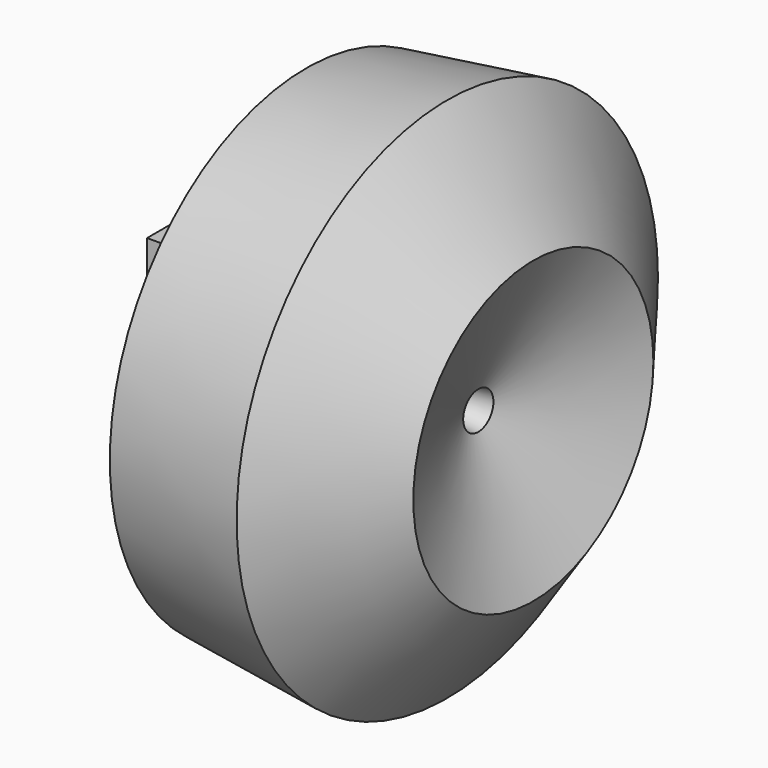
from build123d import *

# Parameters (mm, degrees)
F0_R     = 3.1013234417
F0_R_2   = 2.9804457563
F0_R_3   = 8.8787695935
F0_R_4   = 6.6755002606
F0_W     = 13.5676767677
F0_H     = 10.6998383999
F1_DEPTH = 18.542
F2_R     = 14.1107423838
F3_DEPTH = 25.4


with BuildPart() as f1:
    # F0 (on Top) → F1 (new body)
    with BuildSketch(Plane.XY):
        Polygon((36.2601056695, 15.412141569), (-38.8753563166, 15.412141569), (-38.8753563166, -13.3732762188), (-25.3076795489, -13.3732762188), (-25.3076795489, -24.0731146187), (36.2601056695, -24.0731146187), align=None)
        with Locations((-17.7570972592, -14.4744245335)):
            Circle(F0_R, mode=Mode.SUBTRACT)
        with Locations((25.30169487, -15.913406387)):
            Circle(F0_R_2, mode=Mode.SUBTRACT)
        with Locations((-27.0551405847, 2.0185327157)):
            Circle(F0_R_3, mode=Mode.SUBTRACT)
        with Locations((9.583575651, -0.8594332612)):
            Circle(F0_R_4, mode=Mode.SUBTRACT)
        Polygon((-38.8753563166, -24.0731146187), (-38.8753563166, -13.3732762188), (-44.2731007934, -13.3732762188), (-44.2731007934, -32.0454165339), (-25.3076795489, -32.0454165339), (-25.3076795489, -24.0731146187), align=None)
        with Locations((-32.0915179327, -18.7231954187)):
            Rectangle(F0_W, F0_H)
    extrude(amount=F1_DEPTH)

    # F2 (on face) → F3 (join)
    with BuildSketch(Plane(origin=(0, 0, 0), x_dir=(1, 0, 0), z_dir=(0, 0, -1))):
        with Locations((27.0440354943, -18.5568481684)):
            Circle(F2_R)
    extrude(amount=F3_DEPTH)


with BuildPart() as f6:
    # F5 (on face) → F6 (revolve)
    with BuildSketch(Plane(origin=(0, 0, 0), x_dir=(1, 0, 0), z_dir=(0, 0, -1))):
        with BuildLine():
            Line((65.124420279, -20.8997673818), (48.6210381451, 18.414020864))
            Line((48.6210381451, 18.414020864), (36.2601056695, 19.9817100092))
            Line((36.2601056695, 19.9817100092), (36.2601056695, -7.8714796137))
            ThreePointArc((36.2601056695, -7.8714796137), (22.6431453574, -5.1499388815), (13.2881687086, -15.412141569))
            Line((13.2881687086, -15.412141569), (-17.2721458917, -15.412141569))
            Line((-17.2721458917, -15.412141569), (-2.9690584007, -49.4844637342))
            Line((-2.9690584007, -49.4844637342), (39.329372006, -54.8490096809))
            Line((39.329372006, -54.8490096809), (65.124420279, -20.8997673818))
        make_face()
    revolve(axis=Axis((5.4762130603, -24.0731146187, 0), (1, 0, 0)))


solid = Compound([f1.part, f6.part])
